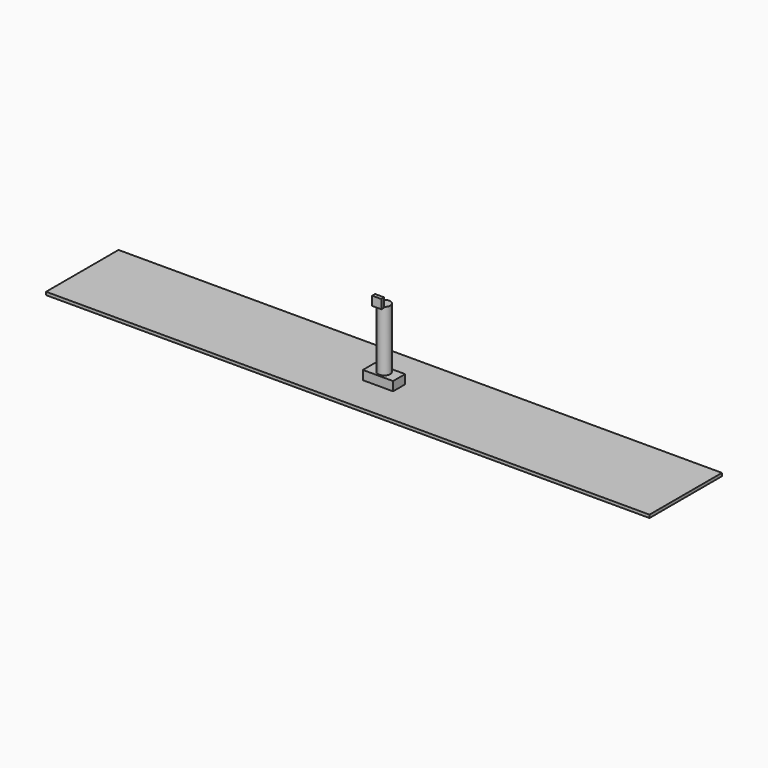
from build123d import *

# Parameters (mm, degrees)
SKETCH_W     = 10000
SKETCH_H     = 1500
PAD_DEPTH    = 50
SKETCH001_W  = 500
SKETCH001_H  = 250
PAD001_DEPTH = 150
SKETCH002_R  = 100
PAD002_DEPTH = 1000
SKETCH003_W  = 150
SKETCH003_H  = 60
PAD003_DEPTH = 150


with BuildPart() as part:
    # Sketch → Pad (new body)
    with BuildSketch(Plane.XY):
        Rectangle(SKETCH_W, SKETCH_H)
    extrude(amount=PAD_DEPTH)

    # Sketch001 (on Face6 of Pad) → Pad001 (join)
    with BuildSketch(Plane.XY.offset(50)):
        Rectangle(SKETCH001_W, SKETCH001_H)
    extrude(amount=PAD001_DEPTH)

    # Sketch002 (on Face11 of Pad001) → Pad002 (join)
    with BuildSketch(Plane.XY.offset(200)):
        with Locations((0.478492, 3.611733)):
            Circle(SKETCH002_R)
    extrude(amount=PAD002_DEPTH)

    # Sketch003 (on Face13 of Pad002) → Pad003 (join)
    with BuildSketch(Plane.XY.offset(1200)):
        with Locations((0, -120)):
            Rectangle(SKETCH003_W, SKETCH003_H)
    extrude(amount=PAD003_DEPTH)


solid = part.part
